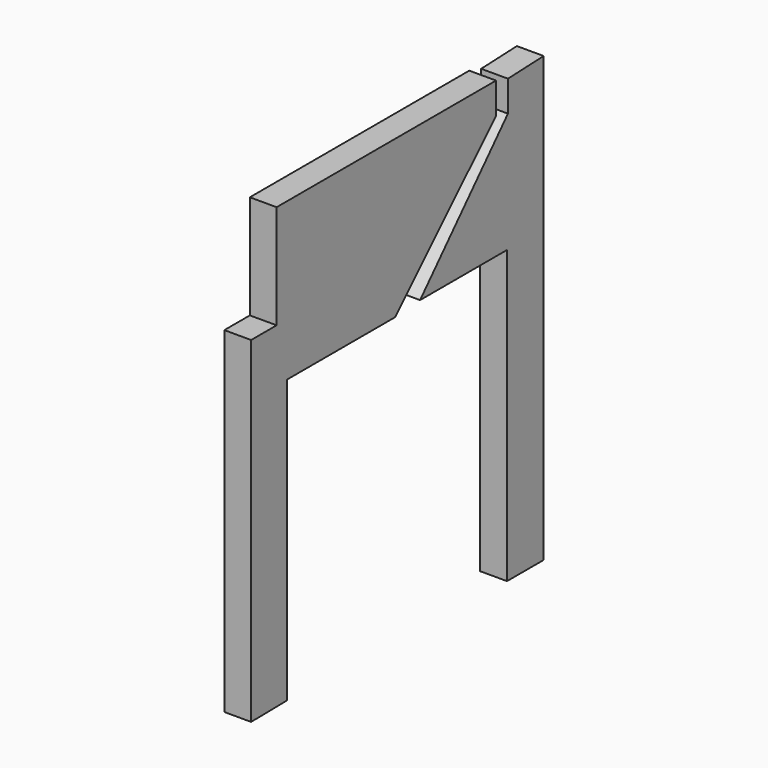
from build123d import *

# Parameters (mm, degrees)
PAD001_DEPTH              = 0.3
PAD002_DEPTH              = 0.3
FUSION004_PLACEMENT_ANGLE = 90


with BuildPart() as obj1:
    # Sketch005 → Pad001 (new body)
    with BuildSketch(Plane.XZ):
        Polygon((2.023401, -1.575822), (2.023401, 3.389274), (1.523401, 3.369008), (1.523401, 3.024492), (0.294592, 1.686955), (1.510534, 1.686955), (1.510534, -1.575822), align=None)
    extrude(amount=PAD001_DEPTH)


with BuildPart() as fusion004:
    # Sketch004 → Pad002 (new body)
    with BuildSketch(Plane.XZ):
        Polygon((-2.069008, -1.50757), (-2.069008, 2.254822), (-1.712164, 2.254822), (-1.712164, 3.418194), (1.357156, 3.418194), (1.357156, 3.071658), (-0.05374, 1.66076), (-1.569008, 1.66076), (-1.569008, -1.5), align=None)
    extrude(amount=PAD002_DEPTH)

    # Fusion004: union obj1
    add(obj1.part)


with BuildPart() as fusion004_1:
    # Fusion004 placement: moved
    add(fusion004.part.moved(Location((5.9, 2.8, 1))).rotate(Axis((5.9, 2.8, 1), (0, 0, 1)), FUSION004_PLACEMENT_ANGLE))


solid = fusion004_1.part
